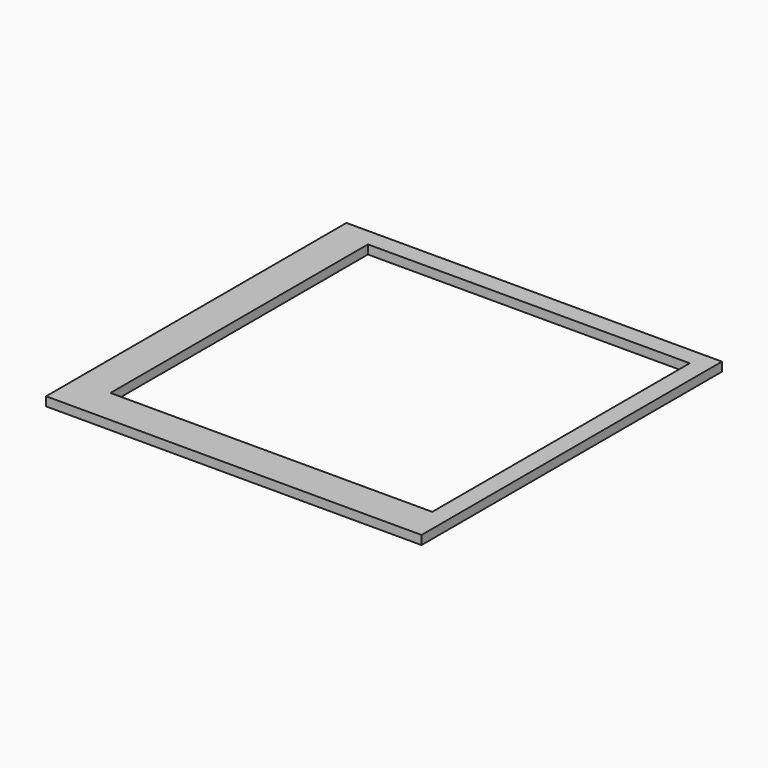
from build123d import *

# Parameters (mm, degrees)
F0_W     = 114.3
F0_H     = 114.3
F1_DEPTH = 3.17


with BuildPart() as f1:
    # F0 (on Top) → F1 (new body)
    with BuildSketch(Plane.XY):
        Polygon((114.3, 6.35), (-12.7, 6.35), (-12.7, -127), (120.65, -127), (120.65, 6.361142), align=None)
        with Locations((57.15, -57.15)):
            Rectangle(F0_W, F0_H, mode=Mode.SUBTRACT)
    extrude(amount=F1_DEPTH)


solid = f1.part
